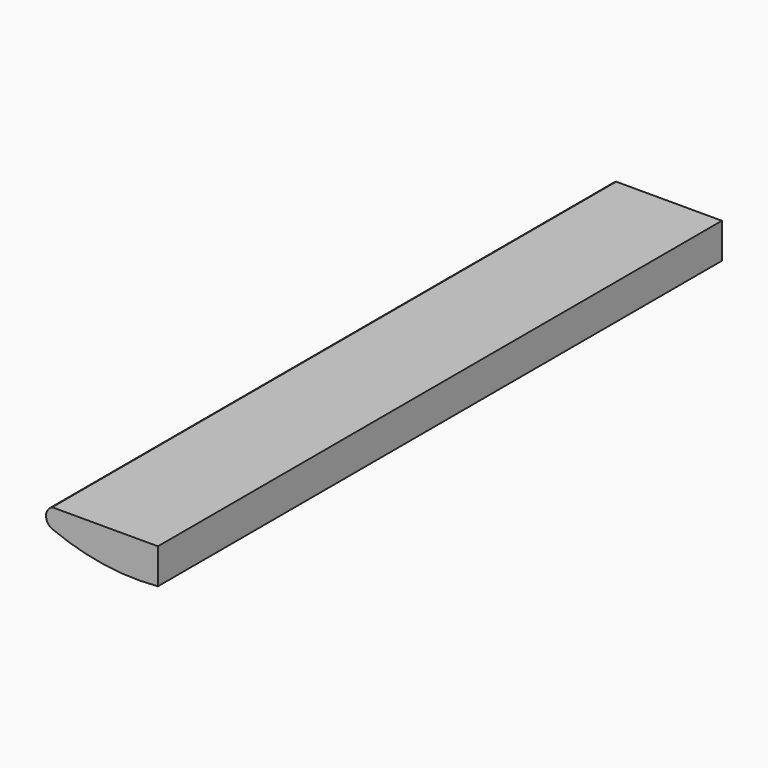
from build123d import *

# Parameters (mm, degrees)
F1_DEPTH = 60


with BuildPart() as f1:
    # F0 (on Front) → F1 (new body)
    with BuildSketch(Plane.XZ):
        with BuildLine():
            ThreePointArc((-9, 1.369446), (-4.582852, 0.14022), (0, 0))
            Line((0, 0), (0, 3))
            Line((0, 3), (-9, 3))
            ThreePointArc((-9, 3), (-9.519063, 2.184723), (-9, 1.369446))
        make_face()
    extrude(amount=F1_DEPTH)


solid = f1.part
